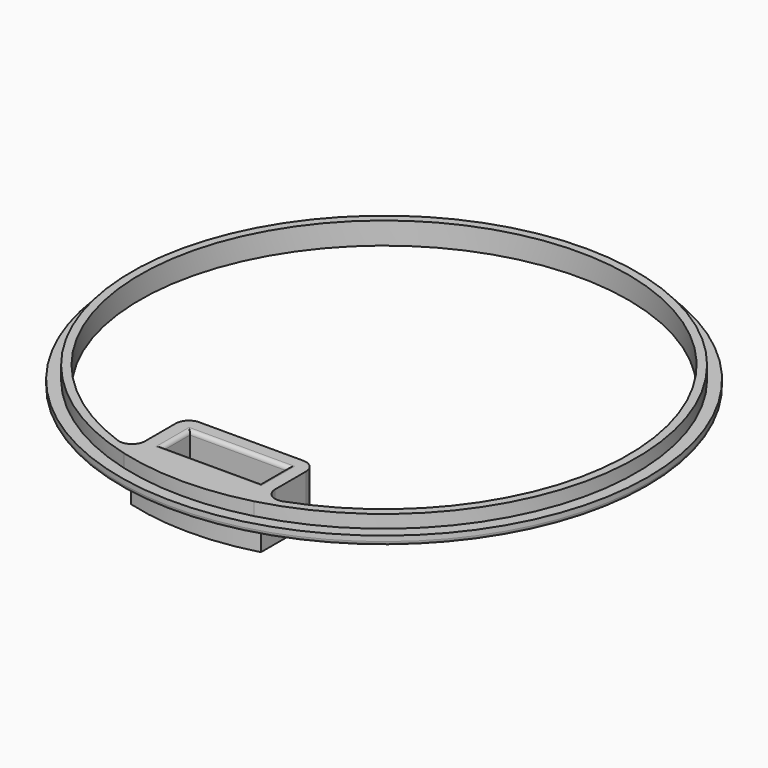
from build123d import *

# Parameters (mm, degrees)
F0_R     = 40.55
F0_W     = 15
F0_H     = 5.2
F1_DEPTH = 1.4
F2_DEPTH = 3.4
F3_DEPTH = 4
F4_R     = 0.6
F5_R     = 2
F6_R     = 0.6


with BuildPart() as f1:
    # F0 (on Top) → F1 (new body)
    with BuildSketch(Plane.XY):
        Circle(F0_R)
        with BuildLine():
            ThreePointArc((-10, -37.4374478297), (-23.6015094856, 30.7332271329), (38.75, 0))
            ThreePointArc((38.75, 0), (30.7332271329, -23.6015094856), (10, -37.4374478297))
            Line((10, -37.4374478297), (10, -39))
            Line((10, -39), (-10, -39))
            Line((-10, -39), (-10, -37.4374478297))
        make_face(mode=Mode.SUBTRACT)
        with BuildLine():
            ThreePointArc((10, -37.4374478297), (30.7332271329, -23.6015094856), (38.75, 0))
            ThreePointArc((38.75, 0), (-23.6015094856, 30.7332271329), (-10, -37.4374478297))
            Line((-10, -37.4374478297), (-10, -36.142080737))
            ThreePointArc((-10, -36.142080737), (-22.7073776557, 29.8433409658), (37.5, 0))
            ThreePointArc((37.5, 0), (29.8433409658, -22.7073776557), (10, -36.142080737))
            Line((10, -36.142080737), (10, -37.4374478297))
        make_face()
        with BuildLine():
            Line((-10, -25.5), (-10, -36.142080737))
            ThreePointArc((-10, -36.142080737), (0, -37.5), (10, -36.142080737))
            Line((10, -36.142080737), (10, -25.5))
            Line((10, -25.5), (-10, -25.5))
        make_face()
        with Locations((0, -30.5)):
            Rectangle(F0_W, F0_H, mode=Mode.SUBTRACT)
        with BuildLine():
            Line((-10, -36.142080737), (-10, -37.4374478297))
            ThreePointArc((-10, -37.4374478297), (0, -38.75), (10, -37.4374478297))
            Line((10, -37.4374478297), (10, -36.142080737))
            ThreePointArc((10, -36.142080737), (0, -37.5), (-10, -36.142080737))
        make_face()
        with BuildLine():
            ThreePointArc((10, -37.4374478297), (0, -38.75), (-10, -37.4374478297))
            Line((-10, -37.4374478297), (-10, -39))
            Line((-10, -39), (10, -39))
            Line((10, -39), (10, -37.4374478297))
        make_face()
    extrude(amount=F1_DEPTH)

    # F0 (on Top) → F2 (join)
    with BuildSketch(Plane.XY):
        with BuildLine():
            ThreePointArc((10, -37.4374478297), (30.7332271329, -23.6015094856), (38.75, 0))
            ThreePointArc((38.75, 0), (-23.6015094856, 30.7332271329), (-10, -37.4374478297))
            Line((-10, -37.4374478297), (-10, -36.142080737))
            ThreePointArc((-10, -36.142080737), (-22.7073776557, 29.8433409658), (37.5, 0))
            ThreePointArc((37.5, 0), (29.8433409658, -22.7073776557), (10, -36.142080737))
            Line((10, -36.142080737), (10, -37.4374478297))
        make_face()
        with BuildLine():
            Line((-10, -36.142080737), (-10, -37.4374478297))
            ThreePointArc((-10, -37.4374478297), (0, -38.75), (10, -37.4374478297))
            Line((10, -37.4374478297), (10, -36.142080737))
            ThreePointArc((10, -36.142080737), (0, -37.5), (-10, -36.142080737))
        make_face()
        with BuildLine():
            Line((-10, -25.5), (-10, -36.142080737))
            ThreePointArc((-10, -36.142080737), (0, -37.5), (10, -36.142080737))
            Line((10, -36.142080737), (10, -25.5))
            Line((10, -25.5), (-10, -25.5))
        make_face()
        with Locations((0, -30.5)):
            Rectangle(F0_W, F0_H, mode=Mode.SUBTRACT)
    extrude(amount=F2_DEPTH)

    # F0 (on Top) → F3 (join)
    with BuildSketch(Plane.XY):
        with BuildLine():
            Line((-10, -25.5), (-10, -36.142080737))
            ThreePointArc((-10, -36.142080737), (0, -37.5), (10, -36.142080737))
            Line((10, -36.142080737), (10, -25.5))
            Line((10, -25.5), (-10, -25.5))
        make_face()
        with Locations((0, -30.5)):
            Rectangle(F0_W, F0_H, mode=Mode.SUBTRACT)
    extrude(amount=-F3_DEPTH)

    # F4
    f4_edges = [f1.edges().sort_by_distance(p)[0] for p in [
        (-40.55, 0, 0),
    ]]
    fillet(f4_edges, radius=F4_R)

    # F5
    f5_edges = [f1.edges().sort_by_distance(p)[0] for p in [
        (-10, -25.5, -0.3),
        (10, -25.5, -0.3),
        (10, -36.142081, 1.7),
        (-10, -36.142081, 1.7),
    ]]
    fillet(f5_edges, radius=F5_R)

    # F6
    f6_edges = [f1.edges().sort_by_distance(p)[0] for p in [
        (7.5, -30.5, 3.4),
        (0, -27.9, 3.4),
        (-7.5, -30.5, 3.4),
        (0, -33.1, 3.4),
        (-7.5, -30.5, -4),
        (0, -27.9, -4),
        (7.5, -30.5, -4),
        (0, -33.1, -4),
    ]]
    fillet(f6_edges, radius=F6_R)


solid = f1.part
